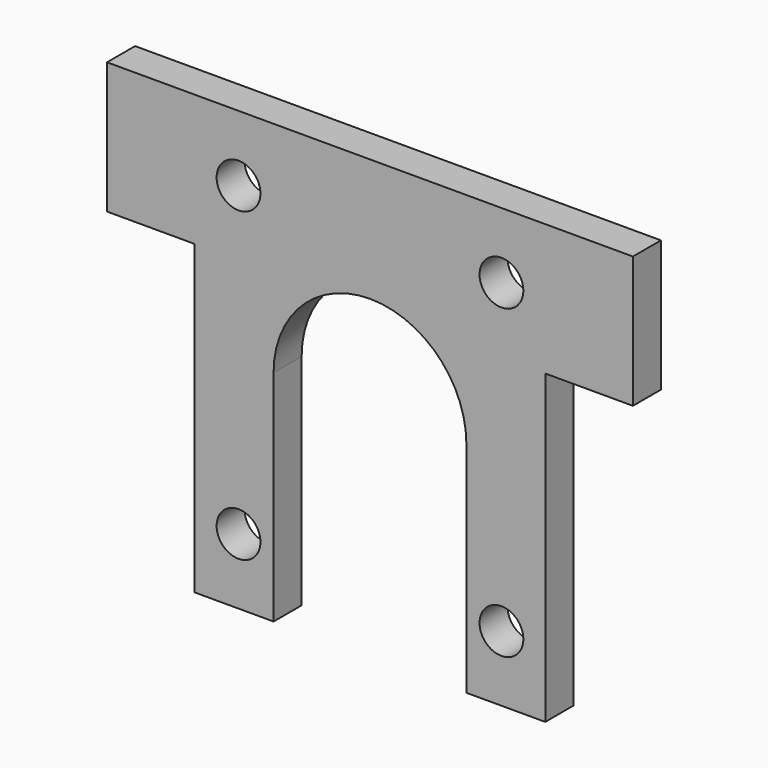
from build123d import *

# Parameters (mm, degrees)
F0_R     = 2.5
F1_DEPTH = 4


with BuildPart() as f1:
    # F0 (on Front) → F1 (new body)
    with BuildSketch(Plane.XZ):
        with BuildLine():
            ThreePointArc((-11, 0), (0, 11), (11, 0))
            Line((11, 0), (11, -25))
            Line((11, -25), (20, -25))
            Line((20, -25), (20, 10))
            Line((20, 10), (30, 10))
            Line((30, 10), (30, 25))
            Line((30, 25), (-30, 25))
            Line((-30, 25), (-30, 10))
            Line((-30, 10), (-20, 10))
            Line((-20, 10), (-20, -25))
            Line((-20, -25), (-11, -25))
            Line((-11, -25), (-11, 0))
        make_face()
        with Locations((-15, -17.5)):
            Circle(F0_R, mode=Mode.SUBTRACT)
        with Locations((15, -17.5)):
            Circle(F0_R, mode=Mode.SUBTRACT)
        with Locations((-15, 17.5)):
            Circle(F0_R, mode=Mode.SUBTRACT)
        with Locations((15, 17.5)):
            Circle(F0_R, mode=Mode.SUBTRACT)
    extrude(amount=F1_DEPTH)


solid = f1.part
